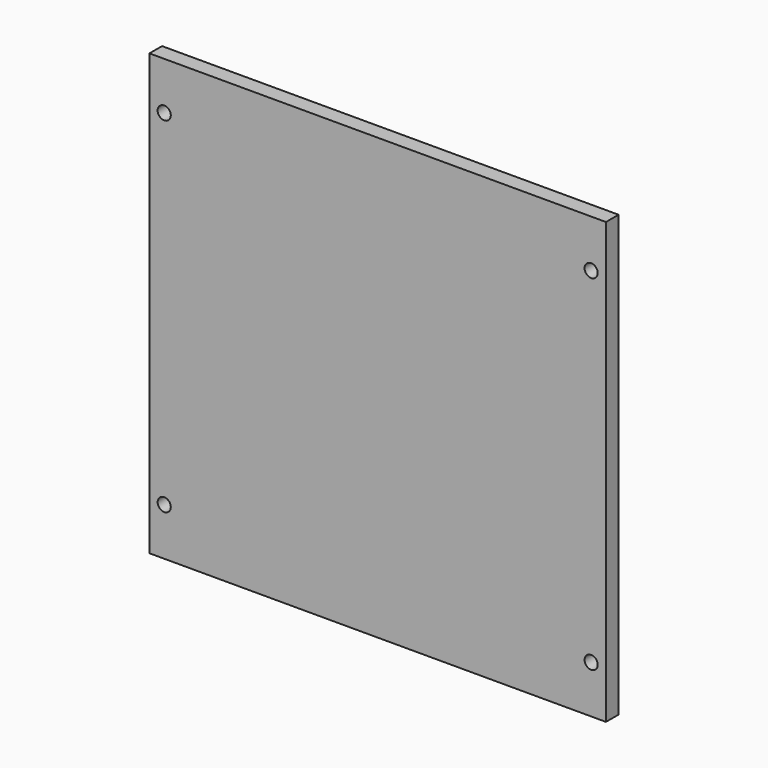
from build123d import *

# Parameters (mm, degrees)
SKETCH_W     = 139
SKETCH_H     = 134
PAD_DEPTH    = 4.8
SKETCH001_R  = 2
POCKET_DEPTH = 4.801


with BuildPart() as part:
    # Sketch → Pad (new body)
    with BuildSketch(Plane.XZ):
        Rectangle(SKETCH_W, SKETCH_H)
    extrude(amount=PAD_DEPTH)

    # Sketch001 (on Face6 of Pad) → Pocket (cut, through all)
    with BuildSketch(Plane.XZ.offset(4.8)):
        with Locations((65, 52.5)):
            Circle(SKETCH001_R)
        with Locations((65, -52.5)):
            Circle(SKETCH001_R)
        with Locations((-65, -52.5)):
            Circle(SKETCH001_R)
        with Locations((-65, 52.5)):
            Circle(SKETCH001_R)
    extrude(amount=-POCKET_DEPTH, mode=Mode.SUBTRACT)


solid = part.part
